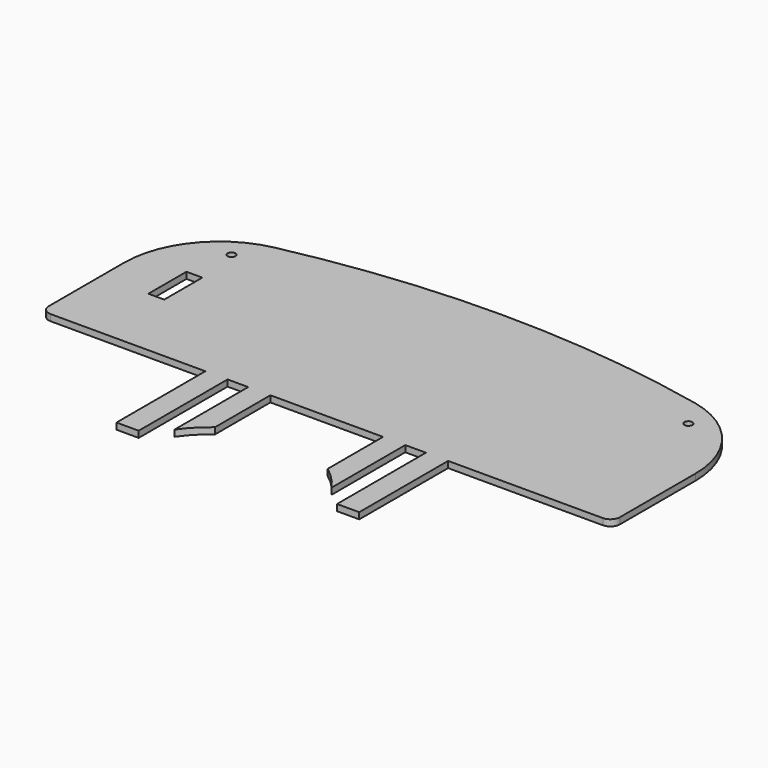
from build123d import *

# Parameters (mm, degrees)
PAD019_DEPTH    = 2
FILLET016_R     = 30
SKETCH039_R     = 1.25
POCKET019_DEPTH = 2.001
FILLET017_R     = 3
SKETCH041_W     = 5
SKETCH041_H     = 15
POCKET020_DEPTH = 5
SKETCH042_W     = 7
SKETCH042_H     = 10
PAD020_DEPTH    = 6
SKETCH044_R     = 0.5
POCKET021_DEPTH = 6
SKETCH045_R     = 30
POCKET022_DEPTH = 7


with BuildPart() as part:
    # Sketch038 → Pad019 (new body)
    with BuildSketch(Plane.XY):
        with BuildLine():
            Line((-90, -38.494821), (-90, 17.505179))
            ThreePointArc((90, 17.505179), (0, 30.6), (-90, 17.505179))
            Line((90, 17.505179), (90, -38.494821))
            Line((90, -38.494821), (38.25, -38.494821))
            Line((38.25, -73.494821), (38.25, -38.494821))
            Line((31.25, -73.494821), (38.25, -73.494821))
            Line((31.25, -38.494821), (31.25, -73.494821))
            Line((24.75, -38.494821), (31.25, -38.494821))
            Line((24.75, -73.494821), (24.75, -38.494821))
            Line((17.75, -73.494821), (24.75, -73.494821))
            Line((17.75, -38.494821), (17.75, -73.494821))
            Line((-17.75, -38.494821), (17.75, -38.494821))
            Line((-17.75, -73.494821), (-17.75, -38.494821))
            Line((-24.75, -73.494821), (-17.75, -73.494821))
            Line((-24.75, -38.494821), (-24.75, -73.494821))
            Line((-31.25, -38.494821), (-24.75, -38.494821))
            Line((-31.25, -73.494821), (-31.25, -38.494821))
            Line((-38.25, -73.494821), (-31.25, -73.494821))
            Line((-38.25, -38.494821), (-38.25, -73.494821))
            Line((-38.25, -38.494821), (-90, -38.494821))
        make_face()
    extrude(amount=PAD019_DEPTH)

    # Fillet016
    fillet016_edges = [part.edges().sort_by_distance(p)[0] for p in [
        (90, 17.505179, 1),
        (-90, 17.505179, 1),
    ]]
    fillet(fillet016_edges, radius=FILLET016_R)

    # Sketch039 (on Face2 of Fillet016) → Pocket019 (cut, through all)
    with BuildSketch(Plane(origin=(0, 0, 0), x_dir=(1, 0, 0), z_dir=(0, 0, -1))):
        with Locations((-72, -14)):
            Circle(SKETCH039_R)
        with Locations((72, -14)):
            Circle(SKETCH039_R)
    extrude(amount=-POCKET019_DEPTH, mode=Mode.SUBTRACT)

    # Fillet017
    fillet017_edges = [part.edges().sort_by_distance(p)[0] for p in [
        (-90, -38.494821, 1),
        (90, -38.494821, 1),
    ]]
    fillet(fillet017_edges, radius=FILLET017_R)

    # Sketch041 (on Face2 of Fillet017) → Pocket020 (cut)
    with BuildSketch(Plane(origin=(0, 0, 0), x_dir=(1, 0, 0), z_dir=(0, 0, -1))):
        with Locations((-72.5, 7.5)):
            Rectangle(SKETCH041_W, SKETCH041_H)
    extrude(amount=-POCKET020_DEPTH, mode=Mode.SUBTRACT)

    # Sketch042 (on Face2 of Pocket020) → Pad020 (join)
    with BuildSketch(Plane(origin=(0, 0, 0), x_dir=(1, 0, 0), z_dir=(0, 0, -1))):
        with Locations((18, -15)):
            Rectangle(SKETCH042_W, SKETCH042_H)
        with Locations((-18, -15)):
            Rectangle(SKETCH042_W, SKETCH042_H)
    extrude(amount=PAD020_DEPTH)

    # Sketch044 (on Face42 of Pad020) → Pocket021 (cut)
    with BuildSketch(Plane(origin=(0, 0, -6), x_dir=(1, 0, 0), z_dir=(0, 0, -1))):
        with Locations((-19.2, -12.5)):
            Circle(SKETCH044_R)
        with Locations((-16.65, -12.5)):
            Circle(SKETCH044_R)
        with Locations((-19.2, -15.05)):
            Circle(SKETCH044_R)
        with Locations((-16.65, -15.05)):
            Circle(SKETCH044_R)
        with Locations((-19.2, -17.6)):
            Circle(SKETCH044_R)
        with Locations((-16.65, -17.6)):
            Circle(SKETCH044_R)
    extrude(amount=-POCKET021_DEPTH, mode=Mode.SUBTRACT)

    # Sketch045 (on Face2 of Pocket021) → Pocket022 (cut)
    with BuildSketch(Plane(origin=(0, 0, 0), x_dir=(1, 0, 0), z_dir=(0, 0, -1))):
        with Locations((0, 84.494821)):
            Circle(SKETCH045_R)
    extrude(amount=-POCKET022_DEPTH, mode=Mode.SUBTRACT)


with BuildPart() as part_1:
    # Body014 placement: moved
    add(part.part.moved(Location((0, 0, -2))))


solid = part_1.part
